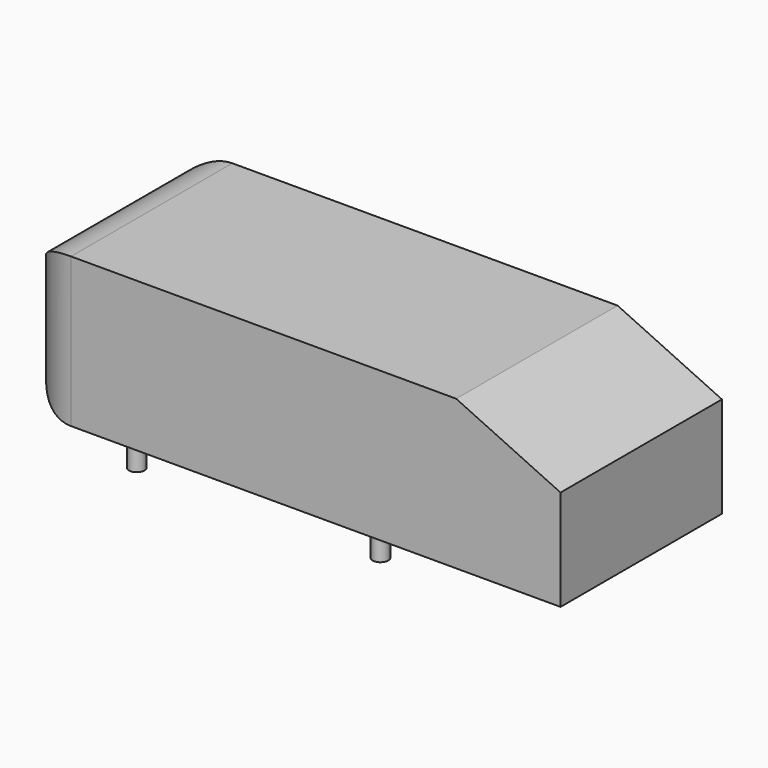
from build123d import *

# Parameters (mm, degrees)
PAD_DEPTH       = 194.5
POCKET_DEPTH    = 338.001
COPYSKETCH003_R = 15
PAD001_DEPTH    = 50
COPYSKETCH002_R = 15
PAD002_DEPTH    = 50
COPYSKETCH004_R = 15
PAD003_DEPTH    = 50
COPYSKETCH005_R = 15
PAD004_DEPTH    = 50


with BuildPart() as main_body:
    # Sketch → Pad (new body, symmetric)
    with BuildSketch(Plane.XZ):
        with BuildLine():
            Line((0, 338), (742.799671, 338))
            Line((742.799671, 338), (944, 244.178746))
            Line((944, 50), (944, 244.178746))
            Line((0, 50), (944, 50))
            ThreePointArc((-100, 150), (-70.710678, 79.289322), (0, 50))
            Line((-100, 238), (-100, 150))
            ThreePointArc((0, 338), (-70.710678, 308.710678), (-100, 238))
        make_face()
    extrude(amount=PAD_DEPTH, both=True)

    # Sketch001 → Pocket (cut, through all)
    with BuildSketch(Plane.XY):
        with BuildLine():
            ThreePointArc((0, 194.5), (-70.710678, 165.210678), (-100, 94.5))
            Line((-100, 94.5), (-100, -94.5))
            ThreePointArc((-100, -94.5), (-70.710678, -165.210678), (0, -194.5))
            Line((0, -244.5), (0, -194.5))
            Line((-150, -244.5), (0, -244.5))
            Line((-150, 244.5), (-150, -244.5))
            Line((0, 244.5), (-150, 244.5))
            Line((0, 194.5), (0, 244.5))
        make_face()
    extrude(amount=POCKET_DEPTH, mode=Mode.SUBTRACT)


with BuildPart() as obj1:
    # CopySketch003 → Pad001 (new body)
    with BuildSketch(Plane.XY):
        with Locations((102, -163.5)):
            Circle(COPYSKETCH003_R)
    extrude(amount=PAD001_DEPTH)


with BuildPart() as obj2:
    # CopySketch002 → Pad002 (new body)
    with BuildSketch(Plane.XY):
        with Locations((102, 163.5)):
            Circle(COPYSKETCH002_R)
    extrude(amount=PAD002_DEPTH)


with BuildPart() as obj3:
    # CopySketch004 → Pad003 (new body)
    with BuildSketch(Plane.XY):
        with Locations((572, 163.5)):
            Circle(COPYSKETCH004_R)
    extrude(amount=PAD003_DEPTH)


with BuildPart() as support_rd001:
    # CopySketch005 → Pad004 (new body)
    with BuildSketch(Plane.XY):
        with Locations((572, -163.5)):
            Circle(COPYSKETCH005_R)
    extrude(amount=PAD004_DEPTH)


solid = Compound([main_body.part, obj1.part, obj2.part, obj3.part, support_rd001.part])
